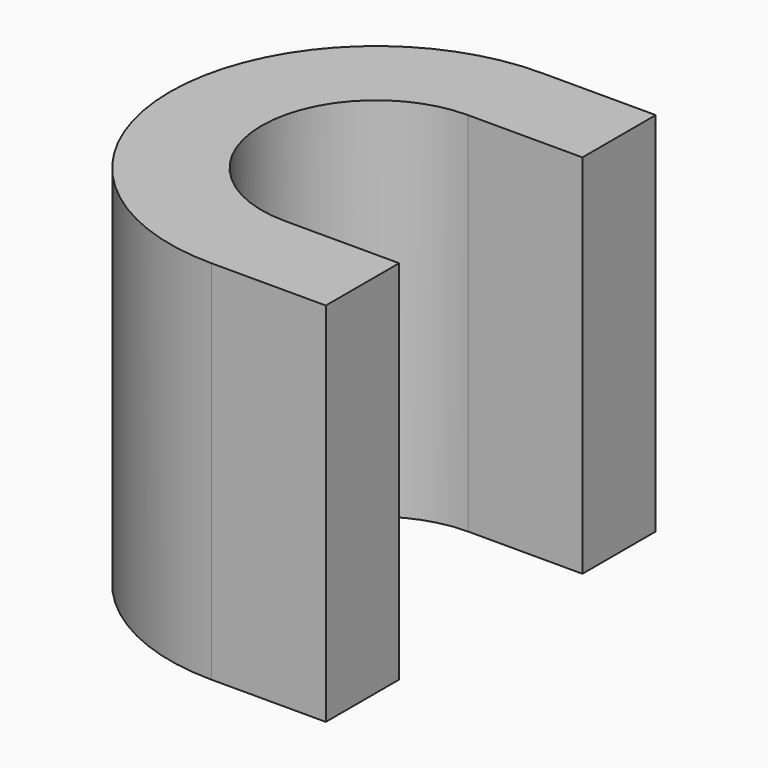
from build123d import *

# Parameters (mm, degrees)
PAD_DEPTH = 8


with BuildPart() as part:
    # Sketch → Pad (new body)
    with BuildSketch(Plane.XY):
        with BuildLine():
            ThreePointArc((0, 2.5), (-2.5, 0), (0, -2.5))
            Line((0, -2.5), (2.5, -2.5))
            Line((2.5, -2.5), (2.5, -4.5))
            Line((2.5, -4.5), (0, -4.5))
            ThreePointArc((0, 4.5), (-4.5, 0), (0, -4.5))
            Line((0, 4.5), (2.5, 4.5))
            Line((2.5, 4.5), (2.5, 2.5))
            Line((2.5, 2.5), (0, 2.5))
        make_face()
    extrude(amount=PAD_DEPTH)


solid = part.part
